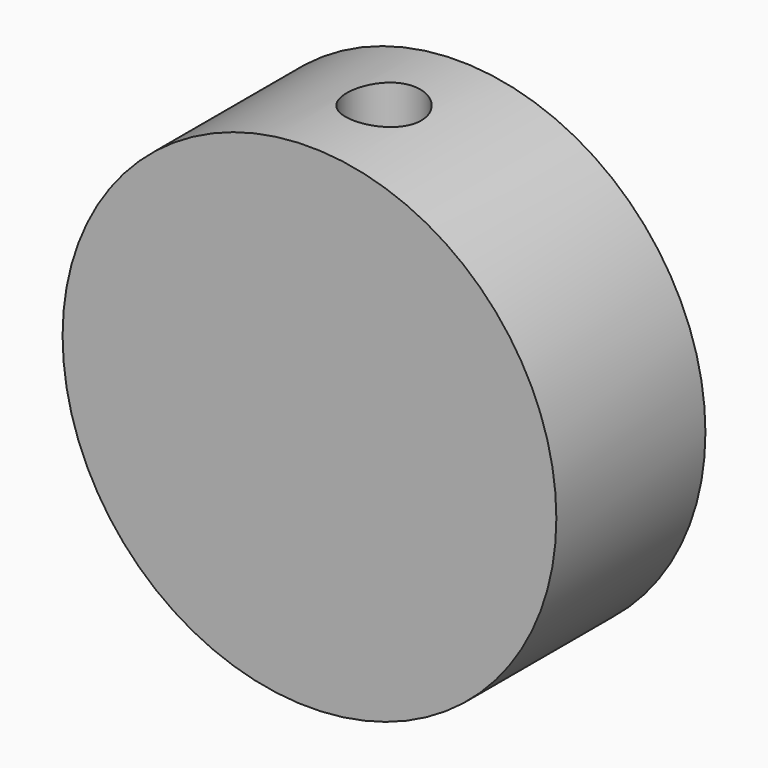
from build123d import *

# Parameters (mm, degrees)
F0_R     = 26.5
F1_DEPTH = 20
F2_R     = 4
F3_DEPTH = 26.501
F4_DEPTH = 26.501


with BuildPart() as f1:
    # F0 (on Front) → F1 (new body)
    with BuildSketch(Plane.XZ):
        Circle(F0_R)
    extrude(amount=F1_DEPTH)

    # F2 (on Top) → F3 (cut, through all)
    with BuildSketch(Plane.XY):
        with Locations((0, -10)):
            Circle(F2_R)
    extrude(amount=-F3_DEPTH, mode=Mode.SUBTRACT)

    # F2 (on Top) → F4 (cut, through all)
    with BuildSketch(Plane.XY):
        with Locations((0, -10)):
            Circle(F2_R)
    extrude(amount=F4_DEPTH, mode=Mode.SUBTRACT)


solid = f1.part
